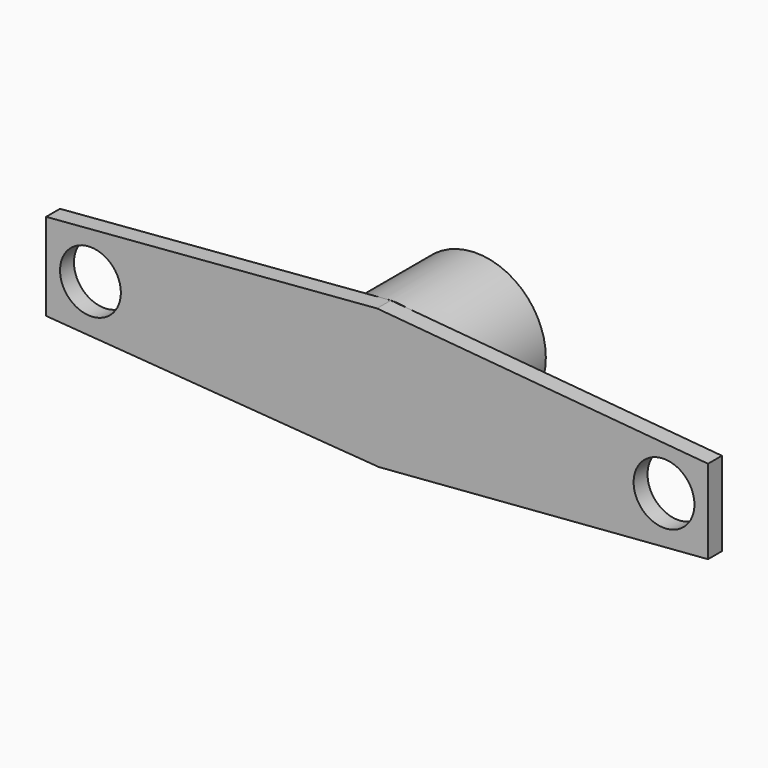
from build123d import *

# Parameters (mm, degrees)
CYLINDER023_R          = 1.75
CYLINDER023_DEPTH      = 17
CYLINDER023_ROLL_ANGLE = 90
CYLINDER022_R          = 1.75
CYLINDER022_DEPTH      = 17
CYLINDER022_ROLL_ANGLE = 90
PAD009_DEPTH           = 1
CYLINDER009_R          = 4
CYLINDER009_DEPTH      = 6
CYLINDER009_ROLL_ANGLE = 90


with BuildPart() as cylinder023:
    # Cylinder023 → Cylinder023 (new body)
    with BuildSketch(Plane.XY):
        Circle(CYLINDER023_R)
    extrude(amount=CYLINDER023_DEPTH)


with BuildPart() as cylinder023_1:
    # Cylinder023 roll: moved
    add(cylinder023.part.rotate(Axis((0, 0, 0), (1, 0, 0)), CYLINDER023_ROLL_ANGLE))


with BuildPart() as cylinder023_2:
    # Cylinder023 placement: moved
    add(cylinder023_1.part.moved(Location((-22, -12, 0))))


with BuildPart() as fusion002:
    # Cylinder022 → Cylinder022 (new body)
    with BuildSketch(Plane.XY):
        Circle(CYLINDER022_R)
    extrude(amount=CYLINDER022_DEPTH)


with BuildPart() as fusion002_1:
    # Cylinder022 roll: moved
    add(fusion002.part.rotate(Axis((0, 0, 0), (1, 0, 0)), CYLINDER022_ROLL_ANGLE))


with BuildPart() as fusion002_2:
    # Cylinder022 placement: moved
    add(fusion002_1.part.moved(Location((11, -12, 0))))

    # Fusion002: union Cylinder023
    add(cylinder023_2.part)


with BuildPart() as cut007:
    # Sketch008 → Pad009 (new body)
    with BuildSketch(Plane.XZ.offset(25)):
        Polygon((-24.552685, 2.449149), (-5.514274, 4), (13.531528, 2.326694), (13.531528, -2.510369), (-5.414014, -4), (-24.552685, -2.571598), align=None)
    extrude(amount=PAD009_DEPTH)

    # Cut007: cut Fusion002
    add(fusion002_2.part, mode=Mode.SUBTRACT)


with BuildPart() as fusion003:
    # Cylinder009 → Cylinder009 (new body)
    with BuildSketch(Plane.XY):
        Circle(CYLINDER009_R)
    extrude(amount=CYLINDER009_DEPTH)


with BuildPart() as fusion003_1:
    # Cylinder009 roll: moved
    add(fusion003.part.rotate(Axis((0, 0, 0), (1, 0, 0)), CYLINDER009_ROLL_ANGLE))


with BuildPart() as fusion003_2:
    # Cylinder009 placement: moved
    add(fusion003_1.part.moved(Location((-5.4, -19, 0))))

    # Fusion003: union Cut007
    add(cut007.part)


solid = fusion003_2.part
